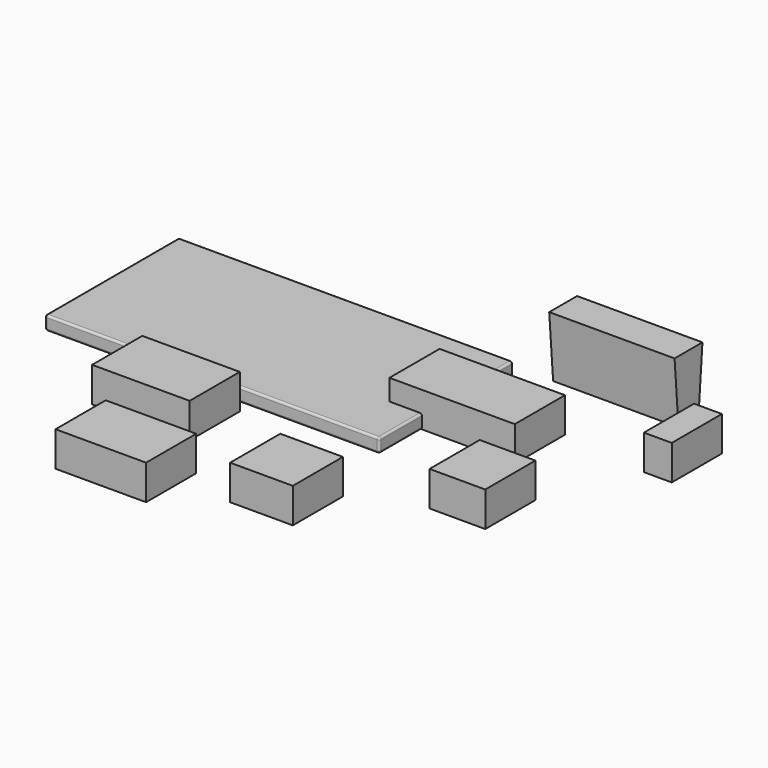
from build123d import *

# Parameters (mm, degrees)
F0_W      = 228.6
F0_H      = 114.3
F1_DEPTH  = 63.5
F2_W      = 609.6
F2_H      = 304.8
F3_DEPTH  = 25.4
F4_R      = 3.81
F5_W      = 101.6
F5_H      = 114.3
F6_DEPTH  = 63.5
F7_W      = 177.8
F7_H      = 114.3
F8_DEPTH  = 63.5
F9_W      = 114.3
F9_H      = 114.3
F10_DEPTH = 63.5
F11_W     = 165.1
F11_H     = 114.3
F12_DEPTH = 63.5
F13_W     = 50.8
F13_H     = 114.3
F14_DEPTH = 63.5
F16_DEPTH = 228.6


with BuildPart() as f1:
    # F0 (on Top) → F1 (new body)
    with BuildSketch(Plane.XY):
        with Locations((32.43839, 12.207375)):
            Rectangle(F0_W, F0_H)
    extrude(amount=F1_DEPTH)


with BuildPart() as f3:
    # F2 (on Top) → F3 (new body)
    with BuildSketch(Plane.XY):
        with Locations((-327.345071, 10.267949)):
            Rectangle(F2_W, F2_H)
    extrude(amount=F3_DEPTH)

    # F4
    f4_edges = [f3.edges().sort_by_distance(p)[0] for p in [
        (-327.345071, -142.132051, 25.4),
        (-22.545071, 10.267949, 25.4),
        (-22.545071, -142.132051, 12.7),
        (-327.345071, -142.132051, 0),
        (-22.545071, 10.267949, 0),
        (-632.145071, -142.132051, 12.7),
        (-632.145071, 10.267949, 25.4),
        (-632.145071, 10.267949, 0),
        (-632.145071, 162.667949, 12.7),
        (-327.345071, 162.667949, 25.4),
        (-327.345071, 162.667949, 0),
        (-22.545071, 162.667949, 12.7),
    ]]
    fillet(f4_edges, radius=F4_R)


with BuildPart() as f6:
    # F5 (on Top) → F6 (new body)
    with BuildSketch(Plane.XY):
        with Locations((189.019965, -171.481449)):
            Rectangle(F5_W, F5_H)
    extrude(amount=F6_DEPTH)


with BuildPart() as f8:
    # F7 (on Top) → F8 (new body)
    with BuildSketch(Plane.XY):
        with Locations((-348.543853, -220.930122)):
            Rectangle(F7_W, F7_H)
    extrude(amount=F8_DEPTH)


with BuildPart() as f10:
    # F9 (on Top) → F10 (new body)
    with BuildSketch(Plane.XY):
        with Locations((-38.371608, -333.79276)):
            Rectangle(F9_W, F9_H)
    extrude(amount=F10_DEPTH)


with BuildPart() as f12:
    # F11 (on Top) → F12 (new body)
    with BuildSketch(Plane.XY):
        with Locations((-271.520673, -408.56068)):
            Rectangle(F11_W, F11_H)
    extrude(amount=F12_DEPTH)


with BuildPart() as f14:
    # F13 (on Top) → F14 (new body)
    with BuildSketch(Plane.XY):
        with Locations((332.012467, 106.640312)):
            Rectangle(F13_W, F13_H)
    extrude(amount=F14_DEPTH)


with BuildPart() as f16:
    # F15 (on Right) → F16 (new body)
    with BuildSketch(Plane.YZ):
        Polygon((280.407198, 89.155098), (216.907198, 89.155098), (225.797198, -25.144902), (271.517198, -25.144902), align=None)
    extrude(amount=F16_DEPTH)


solid = Compound([f1.part, f3.part, f6.part, f8.part, f10.part, f12.part, f14.part, f16.part])
